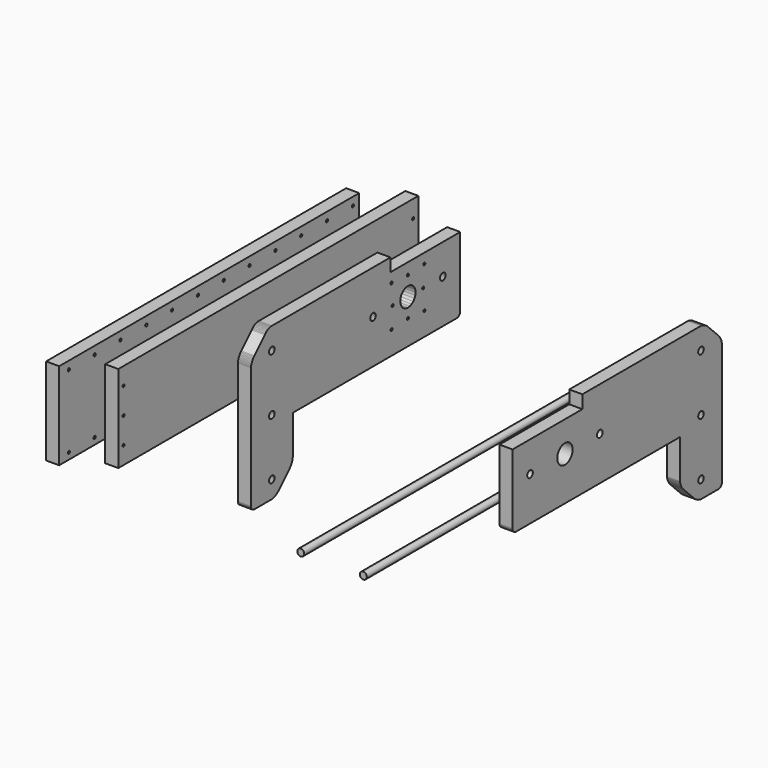
from build123d import *

# Parameters (mm, degrees)
F5_DEPTH  = 15
F6_DEPTH  = 15
F2_R      = 3.9999997574
F2_R_2    = 10.999999734
F2_R_3    = 4.0000000326
F7_DEPTH  = 15
F9_W      = 430
F9_H      = 100
F10_DEPTH = 15
F13_DEPTH = 15
F17_R     = 4
F18_DEPTH = 215
F21_W     = 430
F21_H     = 100
F21_R     = 1.6
F22_DEPTH = 15


with BuildPart() as f5:
    # F4 (on offset) → F5 (new body)
    with BuildSketch(Plane.YZ.offset(-100)):
        Polygon((-30, 32), (-30, 23), (-200, 23), (-200, -37), (200, -37), (200, 23), (30, 23), (30, 32), (29.957224, 32.652631), (29.829629, 33.294095), (29.619397, 33.913417), (29.330127, 34.5), (28.966766, 35.043807), (28.535534, 35.535533), (28.043807, 35.966766), (27.5, 36.330127), (26.913417, 36.619397), (26.294095, 36.829629), (25.652631, 36.957224), (25, 37), (-25, 37), (-25.652631, 36.957224), (-26.294096, 36.829629), (-26.913418, 36.619397), (-27.5, 36.330127), (-28.043808, 35.966766), (-28.535534, 35.535533), (-28.966767, 35.043807), (-29.330127, 34.5), (-29.619398, 33.913417), (-29.82963, 33.294095), (-29.957225, 32.652631), align=None)
        Polygon((-193.799038, -26.25), (-193.560661, -25.93934), (-193.25, -25.700962), (-192.888229, -25.551112), (-192.5, -25.5), (-192.111772, -25.551112), (-191.75, -25.700962), (-191.43934, -25.93934), (-191.200962, -26.25), (-191.051112, -26.611772), (-191, -27), (-191.051112, -27.388229), (-191.200962, -27.75), (-191.43934, -28.060661), (-191.75, -28.299039), (-192.111772, -28.448889), (-192.5, -28.5), (-192.888229, -28.448889), (-193.25, -28.299039), (-193.560661, -28.060661), (-193.799038, -27.75), (-193.948889, -27.388229), (-194, -27), (-193.948889, -26.611772), align=None, mode=Mode.SUBTRACT)
        Polygon((-193.560661, -5.93934), (-193.25, -5.700962), (-192.888229, -5.551112), (-192.5, -5.5), (-192.111772, -5.551112), (-191.75, -5.700962), (-191.43934, -5.93934), (-191.200962, -6.25), (-191.051112, -6.611772), (-191, -7), (-191.051112, -7.388229), (-191.200962, -7.75), (-191.43934, -8.060661), (-191.75, -8.299039), (-192.111772, -8.448889), (-192.5, -8.5), (-192.888229, -8.448889), (-193.25, -8.299039), (-193.560661, -8.060661), (-193.799038, -7.75), (-193.948889, -7.388229), (-194, -7), (-193.948889, -6.611772), (-193.799038, -6.25), align=None, mode=Mode.SUBTRACT)
        Polygon((-24.849038, -16.3), (-24.998889, -15.938229), (-25.05, -15.55), (-24.998889, -15.161772), (-24.849038, -14.8), (-24.610661, -14.48934), (-24.3, -14.250962), (-23.938229, -14.101112), (-23.55, -14.05), (-23.161772, -14.101112), (-22.8, -14.250962), (-22.48934, -14.48934), (-22.250962, -14.8), (-22.101112, -15.161772), (-22.05, -15.55), (-22.101112, -15.938229), (-22.250962, -16.3), (-22.48934, -16.610661), (-22.8, -16.849039), (-23.161772, -16.998889), (-23.55, -17.05), (-23.938229, -16.998889), (-24.3, -16.849039), (-24.610661, -16.610661), align=None, mode=Mode.SUBTRACT)
        Polygon((191.051111, -27.388229), (191, -27), (191.051111, -26.611772), (191.200962, -26.25), (191.439339, -25.93934), (191.75, -25.700962), (192.111771, -25.551112), (192.5, -25.5), (192.888228, -25.551112), (193.25, -25.700962), (193.56066, -25.93934), (193.799038, -26.25), (193.948888, -26.611772), (194, -27), (193.948888, -27.388229), (193.799038, -27.75), (193.56066, -28.060661), (193.25, -28.299039), (192.888228, -28.448889), (192.5, -28.5), (192.111771, -28.448889), (191.75, -28.299039), (191.439339, -28.060661), (191.200962, -27.75), align=None, mode=Mode.SUBTRACT)
        Polygon((-0.75, -12.621273), (-0.388229, -12.471422), (0, -12.420311), (0.388228, -12.471422), (0.75, -12.621273), (1.06066, -12.85965), (1.299038, -13.170311), (1.448888, -13.532082), (1.5, -13.920311), (1.448888, -14.308539), (1.299038, -14.670311), (1.06066, -14.980971), (0.75, -15.219349), (0.388228, -15.369199), (0, -15.420311), (-0.388229, -15.369199), (-0.75, -15.219349), (-1.060661, -14.980971), (-1.299038, -14.670311), (-1.448889, -14.308539), (-1.5, -13.920311), (-1.448889, -13.532082), (-1.299038, -13.170311), (-1.060661, -12.85965), align=None, mode=Mode.SUBTRACT)
        Polygon((23.55, -14.05), (23.938228, -14.101112), (24.3, -14.250962), (24.61066, -14.48934), (24.849038, -14.8), (24.998888, -15.161772), (25.05, -15.55), (24.998888, -15.938229), (24.849038, -16.3), (24.61066, -16.610661), (24.3, -16.849039), (23.938228, -16.998889), (23.55, -17.05), (23.161771, -16.998889), (22.8, -16.849039), (22.489339, -16.610661), (22.250962, -16.3), (22.101111, -15.938229), (22.05, -15.55), (22.101111, -15.161772), (22.250962, -14.8), (22.489339, -14.48934), (22.8, -14.250962), (23.161771, -14.101112), align=None, mode=Mode.SUBTRACT)
        Polygon((191.200962, -7.75), (191.051111, -7.388229), (191, -7), (191.051111, -6.611772), (191.200962, -6.25), (191.439339, -5.93934), (191.75, -5.700962), (192.111771, -5.551112), (192.5, -5.5), (192.888228, -5.551112), (193.25, -5.700962), (193.56066, -5.93934), (193.799038, -6.25), (193.948888, -6.611772), (194, -7), (193.948888, -7.388229), (193.799038, -7.75), (193.56066, -8.060661), (193.25, -8.299039), (192.888228, -8.448889), (192.5, -8.5), (192.111771, -8.448889), (191.75, -8.299039), (191.439339, -8.060661), align=None, mode=Mode.SUBTRACT)
        Polygon((-191.200962, 12.25), (-191.43934, 11.939339), (-191.75, 11.700961), (-192.111772, 11.551111), (-192.5, 11.5), (-192.888229, 11.551111), (-193.25, 11.700961), (-193.560661, 11.939339), (-193.799038, 12.25), (-193.948889, 12.611771), (-194, 13), (-193.948889, 13.388228), (-193.799038, 13.75), (-193.560661, 14.06066), (-193.25, 14.299038), (-192.888229, 14.448888), (-192.5, 14.5), (-192.111772, 14.448888), (-191.75, 14.299038), (-191.43934, 14.06066), (-191.200962, 13.75), (-191.051112, 13.388228), (-191, 13), (-191.051112, 12.611771), align=None, mode=Mode.SUBTRACT)
        Polygon((-101.448889, 8.388228), (-101.299038, 8.75), (-101.060661, 9.06066), (-100.75, 9.299038), (-100.388229, 9.448888), (-100, 9.5), (-99.611772, 9.448888), (-99.25, 9.299038), (-98.93934, 9.06066), (-98.700962, 8.75), (-98.551112, 8.388228), (-98.5, 8), (-98.551112, 7.611771), (-98.700962, 7.25), (-98.93934, 6.939339), (-99.25, 6.700961), (-99.611772, 6.551111), (-100, 6.5), (-100.388229, 6.551111), (-100.75, 6.700961), (-101.060661, 6.939339), (-101.299038, 7.25), (-101.448889, 7.611771), (-101.5, 8), align=None, mode=Mode.SUBTRACT)
        Polygon((-88.464102, 10), (-87.828428, 10.828427), (-87, 11.464101), (-86.035277, 11.863703), (-85, 12), (-83.964724, 11.863703), (-83, 11.464101), (-82.171573, 10.828427), (-81.535899, 10), (-81.136297, 9.035276), (-81, 8), (-81.136297, 6.964723), (-81.535899, 6), (-82.171573, 5.171572), (-83, 4.535898), (-83.964724, 4.136296), (-85, 4), (-86.035277, 4.136296), (-87, 4.535898), (-87.828428, 5.171572), (-88.464102, 6), (-88.863704, 6.964723), (-89, 8), (-88.863704, 9.035276), align=None, mode=Mode.SUBTRACT)
        Polygon((-71.448889, 7.611771), (-71.5, 8), (-71.448889, 8.388228), (-71.299038, 8.75), (-71.060661, 9.06066), (-70.75, 9.299038), (-70.388229, 9.448888), (-70, 9.5), (-69.611772, 9.448888), (-69.25, 9.299038), (-68.93934, 9.06066), (-68.700962, 8.75), (-68.551112, 8.388228), (-68.5, 8), (-68.551112, 7.611771), (-68.700962, 7.25), (-68.93934, 6.939339), (-69.25, 6.700961), (-69.611772, 6.551111), (-70, 6.5), (-70.388229, 6.551111), (-70.75, 6.700961), (-71.060661, 6.939339), (-71.299038, 7.25), align=None, mode=Mode.SUBTRACT)
        Polygon((-23.219349, 8.75), (-22.980971, 9.06066), (-22.670311, 9.299038), (-22.308539, 9.448888), (-21.920311, 9.5), (-21.532082, 9.448888), (-21.170311, 9.299038), (-20.85965, 9.06066), (-20.621272, 8.75), (-20.471422, 8.388228), (-20.420311, 8), (-20.471422, 7.611771), (-20.621272, 7.25), (-20.85965, 6.939339), (-21.170311, 6.700961), (-21.532082, 6.551111), (-21.920311, 6.5), (-22.308539, 6.551111), (-22.670311, 6.700961), (-22.980971, 6.939339), (-23.219349, 7.25), (-23.369199, 7.611771), (-23.420311, 8), (-23.369199, 8.388228), align=None, mode=Mode.SUBTRACT)
        Polygon((-22.05, 31.55), (-22.101112, 31.161771), (-22.250962, 30.8), (-22.48934, 30.489339), (-22.8, 30.250961), (-23.161772, 30.101111), (-23.55, 30.05), (-23.938229, 30.101111), (-24.3, 30.250961), (-24.610661, 30.489339), (-24.849038, 30.8), (-24.998889, 31.161771), (-25.05, 31.55), (-24.998889, 31.938228), (-24.849038, 32.3), (-24.610661, 32.61066), (-24.3, 32.849038), (-23.938229, 32.998888), (-23.55, 33.05), (-23.161772, 32.998888), (-22.8, 32.849038), (-22.48934, 32.61066), (-22.250962, 32.3), (-22.101112, 31.938228), align=None, mode=Mode.SUBTRACT)
        Polygon((-10.392305, 14), (-8.485282, 16.485281), (-6, 18.392304), (-3.105829, 19.591109), (0, 20), (3.105828, 19.591109), (6, 18.392304), (8.485281, 16.485281), (10.392304, 14), (11.59111, 11.105828), (12, 8), (11.59111, 4.894171), (10.392304, 2), (8.485281, -0.485282), (6, -2.392305), (3.105828, -3.59111), (0, -4), (-3.105829, -3.59111), (-6, -2.392305), (-8.485282, -0.485282), (-10.392305, 2), (-11.59111, 4.894171), (-12, 8), (-11.59111, 11.105828), align=None, mode=Mode.SUBTRACT)
        Polygon((20.85965, 9.06066), (21.17031, 9.299038), (21.532081, 9.448888), (21.92031, 9.5), (22.308538, 9.448888), (22.67031, 9.299038), (22.98097, 9.06066), (23.219348, 8.75), (23.369199, 8.388228), (23.42031, 8), (23.369199, 7.611771), (23.219348, 7.25), (22.98097, 6.939339), (22.67031, 6.700961), (22.308538, 6.551111), (21.92031, 6.5), (21.532081, 6.551111), (21.17031, 6.700961), (20.85965, 6.939339), (20.621272, 7.25), (20.471421, 7.611771), (20.42031, 8), (20.471421, 8.388228), (20.621272, 8.75), align=None, mode=Mode.SUBTRACT)
        Polygon((70.75, 6.700961), (70.388228, 6.551111), (70, 6.5), (69.611771, 6.551111), (69.25, 6.700961), (68.939339, 6.939339), (68.700962, 7.25), (68.551111, 7.611771), (68.5, 8), (68.551111, 8.388228), (68.700962, 8.75), (68.939339, 9.06066), (69.25, 9.299038), (69.611771, 9.448888), (70, 9.5), (70.388228, 9.448888), (70.75, 9.299038), (71.06066, 9.06066), (71.299038, 8.75), (71.448888, 8.388228), (71.5, 8), (71.448888, 7.611771), (71.299038, 7.25), (71.06066, 6.939339), align=None, mode=Mode.SUBTRACT)
        Polygon((81.136296, 6.964723), (81, 8), (81.136296, 9.035276), (81.535898, 10), (82.171572, 10.828427), (83, 11.464101), (83.964723, 11.863703), (85, 12), (86.035276, 11.863703), (87, 11.464101), (87.828427, 10.828427), (88.464101, 10), (88.863703, 9.035276), (89, 8), (88.863703, 6.964723), (88.464101, 6), (87.828427, 5.171572), (87, 4.535898), (86.035276, 4.136296), (85, 4), (83.964723, 4.136296), (83, 4.535898), (82.171572, 5.171572), (81.535898, 6), align=None, mode=Mode.SUBTRACT)
        Polygon((101.448888, 8.388228), (101.5, 8), (101.448888, 7.611771), (101.299038, 7.25), (101.06066, 6.939339), (100.75, 6.700961), (100.388228, 6.551111), (100, 6.5), (99.611771, 6.551111), (99.25, 6.700961), (98.939339, 6.939339), (98.700962, 7.25), (98.551111, 7.611771), (98.5, 8), (98.551111, 8.388228), (98.700962, 8.75), (98.939339, 9.06066), (99.25, 9.299038), (99.611771, 9.448888), (100, 9.5), (100.388228, 9.448888), (100.75, 9.299038), (101.06066, 9.06066), (101.299038, 8.75), align=None, mode=Mode.SUBTRACT)
        Polygon((191.75, 14.299038), (192.111771, 14.448888), (192.5, 14.5), (192.888228, 14.448888), (193.25, 14.299038), (193.56066, 14.06066), (193.799038, 13.75), (193.948888, 13.388228), (194, 13), (193.948888, 12.611771), (193.799038, 12.25), (193.56066, 11.939339), (193.25, 11.700961), (192.888228, 11.551111), (192.5, 11.5), (192.111771, 11.551111), (191.75, 11.700961), (191.439339, 11.939339), (191.200962, 12.25), (191.051111, 12.611771), (191, 13), (191.051111, 13.388228), (191.200962, 13.75), (191.439339, 14.06066), align=None, mode=Mode.SUBTRACT)
        Polygon((-1.060661, 28.85965), (-1.299038, 29.17031), (-1.448889, 29.532081), (-1.5, 29.92031), (-1.448889, 30.308538), (-1.299038, 30.67031), (-1.060661, 30.98097), (-0.75, 31.219348), (-0.388229, 31.369199), (0, 31.42031), (0.388228, 31.369199), (0.75, 31.219348), (1.06066, 30.98097), (1.299038, 30.67031), (1.448888, 30.308538), (1.5, 29.92031), (1.448888, 29.532081), (1.299038, 29.17031), (1.06066, 28.85965), (0.75, 28.621272), (0.388228, 28.471421), (0, 28.42031), (-0.388229, 28.471421), (-0.75, 28.621272), align=None, mode=Mode.SUBTRACT)
        Polygon((24.61066, 30.489339), (24.3, 30.250961), (23.938228, 30.101111), (23.55, 30.05), (23.161771, 30.101111), (22.8, 30.250961), (22.489339, 30.489339), (22.250962, 30.8), (22.101111, 31.161771), (22.05, 31.55), (22.101111, 31.938228), (22.250962, 32.3), (22.489339, 32.61066), (22.8, 32.849038), (23.161771, 32.998888), (23.55, 33.05), (23.938228, 32.998888), (24.3, 32.849038), (24.61066, 32.61066), (24.849038, 32.3), (24.998888, 31.938228), (25.05, 31.55), (24.998888, 31.161771), (24.849038, 30.8), align=None, mode=Mode.SUBTRACT)
    extrude(amount=F5_DEPTH)


with BuildPart() as f5b:
    # F0 (on Right) → F5, piece 2 (new body)
    with BuildSketch(Plane.YZ):
        Polygon((-125, 97.5), (-140, 97.5), (-141.305262, 97.414449), (-142.588191, 97.159259), (-143.826835, 96.738796), (-145, 96.160254), (-146.087615, 95.433534), (-147.071068, 94.571068), (-147.933534, 93.587615), (-148.660254, 92.5), (-149.238796, 91.326835), (-149.659259, 90.088191), (-149.914449, 88.805262), (-150, 87.5), (-150, -92.5), (-149.957225, -93.152631), (-149.82963, -93.794095), (-149.619398, -94.413417), (-149.330127, -95), (-148.966767, -95.543807), (-148.535534, -96.035534), (-148.043808, -96.466766), (-147.5, -96.830127), (-146.913418, -97.119397), (-146.294096, -97.329629), (-145.652631, -97.457224), (-145, -97.5), (-120, -97.5), (-119.065605, -97.340845), (-118.141083, -97.131837), (-117.229092, -96.873575), (-116.332256, -96.566802), (-115.453151, -96.2124), (-114.594306, -95.811388), (-113.75819, -95.364919), (-112.947205, -94.874276), (-112.163685, -94.340871), (-111.409881, -93.766236), (-110.687961, -93.152024), (-110, -92.5), (-95, -77.5), (-94.347976, -76.812039), (-93.733764, -76.090119), (-93.159129, -75.336315), (-92.625724, -74.552795), (-92.135081, -73.74181), (-91.688612, -72.905694), (-91.2876, -72.046849), (-90.933198, -71.167744), (-90.626425, -70.270908), (-90.368163, -69.358917), (-90.159155, -68.434395), (-90, -67.5), (-90, -22.5), (145, -22.5), (145.652631, -22.457224), (146.294095, -22.329629), (146.913417, -22.119397), (147.5, -21.830127), (148.043807, -21.466766), (148.535534, -21.035534), (148.966766, -20.543807), (149.330127, -20), (149.619397, -19.413417), (149.829629, -18.794095), (149.957224, -18.152631), (150, -17.5), (150, 62.5), (50, 62.5), (50, 77.5), (-90, 77.5), (-102.5, 87.5), (-104.147134, 88.760926), (-105.846655, 89.950301), (-107.595456, 91.065953), (-109.390342, 92.105841), (-111.228033, 93.068067), (-113.105169, 93.950871), (-115.018321, 94.75264), (-116.963992, 95.471908), (-118.938627, 96.107362), (-120.938617, 96.65784), (-122.960306, 97.122336), align=None)
        Polygon((-122, -80.964101), (-122.828428, -80.328427), (-123.464102, -79.5), (-123.863704, -78.535276), (-124, -77.5), (-123.863704, -76.464723), (-123.464102, -75.5), (-122.828428, -74.671572), (-122, -74.035898), (-121.035277, -73.636296), (-120, -73.5), (-118.964724, -73.636296), (-118, -74.035898), (-117.171573, -74.671572), (-116.535899, -75.5), (-116.136297, -76.464723), (-116, -77.5), (-116.136297, -78.535276), (-116.535899, -79.5), (-117.171573, -80.328427), (-118, -80.964101), (-118.964724, -81.363703), (-120, -81.5), (-121.035277, -81.363703), align=None, mode=Mode.SUBTRACT)
        Polygon((-118, -9.035898), (-117.171573, -9.671572), (-116.535899, -10.5), (-116.136297, -11.464723), (-116, -12.5), (-116.136297, -13.535276), (-116.535899, -14.5), (-117.171573, -15.328427), (-118, -15.964101), (-118.964724, -16.363703), (-120, -16.5), (-121.035277, -16.363703), (-122, -15.964101), (-122.828428, -15.328427), (-123.464102, -14.5), (-123.863704, -13.535276), (-124, -12.5), (-123.863704, -11.464723), (-123.464102, -10.5), (-122.828428, -9.671572), (-122, -9.035898), (-121.035277, -8.636296), (-120, -8.5), (-118.964724, -8.636296), align=None, mode=Mode.SUBTRACT)
        Polygon((-117.171573, 49.671573), (-118, 49.035899), (-118.964724, 48.636297), (-120, 48.5), (-121.035277, 48.636297), (-122, 49.035899), (-122.828428, 49.671573), (-123.464102, 50.5), (-123.863704, 51.464724), (-124, 52.5), (-123.863704, 53.535277), (-123.464102, 54.5), (-122.828428, 55.328428), (-122, 55.964102), (-121.035277, 56.363704), (-120, 56.5), (-118.964724, 56.363704), (-118, 55.964102), (-117.171573, 55.328428), (-116.535899, 54.5), (-116.136297, 53.535277), (-116, 52.5), (-116.136297, 51.464724), (-116.535899, 50.5), align=None, mode=Mode.SUBTRACT)
        Polygon((51.061771, 5.398889), (51.45, 5.45), (51.838228, 5.398889), (52.2, 5.249038), (52.51066, 5.010661), (52.749038, 4.7), (52.898888, 4.338229), (52.95, 3.95), (52.898888, 3.561772), (52.749038, 3.2), (52.51066, 2.88934), (52.2, 2.650962), (51.838228, 2.501112), (51.45, 2.45), (51.061771, 2.501112), (50.7, 2.650962), (50.389339, 2.88934), (50.150962, 3.2), (50.001111, 3.561772), (49.95, 3.95), (50.001111, 4.338229), (50.150962, 4.7), (50.389339, 5.010661), (50.7, 5.249038), align=None, mode=Mode.SUBTRACT)
        Polygon((28.464101, 29.5), (28.863703, 28.535277), (29, 27.5), (28.863703, 26.464724), (28.464101, 25.5), (27.828427, 24.671573), (27, 24.035899), (26.035276, 23.636297), (25, 23.5), (23.964723, 23.636297), (23, 24.035899), (22.171572, 24.671573), (21.535898, 25.5), (21.136296, 26.464724), (21, 27.5), (21.136296, 28.535277), (21.535898, 29.5), (22.171572, 30.328428), (23, 30.964102), (23.964723, 31.363704), (25, 31.5), (26.035276, 31.363704), (27, 30.964102), (27.828427, 30.328428), align=None, mode=Mode.SUBTRACT)
        Polygon((51.579689, 27.5), (51.630801, 27.888229), (51.780651, 28.25), (52.019029, 28.560661), (52.329689, 28.799038), (52.691461, 28.948889), (53.079689, 29), (53.467918, 28.948889), (53.829689, 28.799038), (54.14035, 28.560661), (54.378728, 28.25), (54.528578, 27.888229), (54.579689, 27.5), (54.528578, 27.111772), (54.378728, 26.75), (54.14035, 26.43934), (53.829689, 26.200962), (53.467918, 26.051112), (53.079689, 26), (52.691461, 26.051112), (52.329689, 26.200962), (52.019029, 26.43934), (51.780651, 26.75), (51.630801, 27.111772), align=None, mode=Mode.SUBTRACT)
        Polygon((74.25, 4.280652), (73.939339, 4.51903), (73.700962, 4.82969), (73.551111, 5.191462), (73.5, 5.57969), (73.551111, 5.967919), (73.700962, 6.32969), (73.939339, 6.64035), (74.25, 6.878728), (74.611771, 7.028579), (75, 7.07969), (75.388228, 7.028579), (75.75, 6.878728), (76.06066, 6.64035), (76.299038, 6.32969), (76.448888, 5.967919), (76.5, 5.57969), (76.448888, 5.191462), (76.299038, 4.82969), (76.06066, 4.51903), (75.75, 4.280652), (75.388228, 4.130801), (75, 4.07969), (74.611771, 4.130801), align=None, mode=Mode.SUBTRACT)
        Polygon((97.489339, 5.010661), (97.8, 5.249038), (98.161771, 5.398889), (98.55, 5.45), (98.938228, 5.398889), (99.3, 5.249038), (99.61066, 5.010661), (99.849038, 4.7), (99.998888, 4.338229), (100.05, 3.95), (99.998888, 3.561772), (99.849038, 3.2), (99.61066, 2.88934), (99.3, 2.650962), (98.938228, 2.501112), (98.55, 2.45), (98.161771, 2.501112), (97.8, 2.650962), (97.489339, 2.88934), (97.250962, 3.2), (97.101111, 3.561772), (97.05, 3.95), (97.101111, 4.338229), (97.250962, 4.7), align=None, mode=Mode.SUBTRACT)
        Polygon((69.5, 37.02628), (72.15299, 38.125184), (75, 38.5), (77.847009, 38.125184), (80.5, 37.02628), (82.778174, 35.278175), (84.526279, 33), (85.625184, 30.34701), (86, 27.5), (85.625184, 24.652991), (84.526279, 22), (82.778174, 19.721826), (80.5, 17.973721), (77.847009, 16.874816), (75, 16.5), (72.15299, 16.874816), (69.5, 17.973721), (67.221825, 19.721826), (65.47372, 22), (64.374816, 24.652991), (64, 27.5), (64.374816, 30.34701), (65.47372, 33), (67.221825, 35.278175), align=None, mode=Mode.SUBTRACT)
        Polygon((96.17031, 28.799038), (96.532081, 28.948889), (96.92031, 29), (97.308538, 28.948889), (97.67031, 28.799038), (97.98097, 28.560661), (98.219348, 28.25), (98.369199, 27.888229), (98.42031, 27.5), (98.369199, 27.111772), (98.219348, 26.75), (97.98097, 26.43934), (97.67031, 26.200962), (97.308538, 26.051112), (96.92031, 26), (96.532081, 26.051112), (96.17031, 26.200962), (95.85965, 26.43934), (95.621272, 26.75), (95.471421, 27.111772), (95.42031, 27.5), (95.471421, 27.888229), (95.621272, 28.25), (95.85965, 28.560661), align=None, mode=Mode.SUBTRACT)
        Polygon((126.035276, 31.363704), (127, 30.964102), (127.828427, 30.328428), (128.464101, 29.5), (128.863703, 28.535277), (129, 27.5), (128.863703, 26.464724), (128.464101, 25.5), (127.828427, 24.671573), (127, 24.035899), (126.035276, 23.636297), (125, 23.5), (123.964723, 23.636297), (123, 24.035899), (122.171572, 24.671573), (121.535898, 25.5), (121.136296, 26.464724), (121, 27.5), (121.136296, 28.535277), (121.535898, 29.5), (122.171572, 30.328428), (123, 30.964102), (123.964723, 31.363704), (125, 31.5), align=None, mode=Mode.SUBTRACT)
        Polygon((49.95, 51.05), (50.001111, 51.438229), (50.150962, 51.8), (50.389339, 52.110661), (50.7, 52.349038), (51.061771, 52.498889), (51.45, 52.55), (51.838228, 52.498889), (52.2, 52.349038), (52.51066, 52.110661), (52.749038, 51.8), (52.898888, 51.438229), (52.95, 51.05), (52.898888, 50.661772), (52.749038, 50.3), (52.51066, 49.98934), (52.2, 49.750962), (51.838228, 49.601112), (51.45, 49.55), (51.061771, 49.601112), (50.7, 49.750962), (50.389339, 49.98934), (50.150962, 50.3), (50.001111, 50.661772), align=None, mode=Mode.SUBTRACT)
        Polygon((74.25, 50.719349), (74.611771, 50.869199), (75, 50.920311), (75.388228, 50.869199), (75.75, 50.719349), (76.06066, 50.480971), (76.299038, 50.170311), (76.448888, 49.808539), (76.5, 49.420311), (76.448888, 49.032082), (76.299038, 48.670311), (76.06066, 48.35965), (75.75, 48.121272), (75.388228, 47.971422), (75, 47.920311), (74.611771, 47.971422), (74.25, 48.121272), (73.939339, 48.35965), (73.700962, 48.670311), (73.551111, 49.032082), (73.5, 49.420311), (73.551111, 49.808539), (73.700962, 50.170311), (73.939339, 50.480971), align=None, mode=Mode.SUBTRACT)
        Polygon((98.55, 49.55), (98.161771, 49.601112), (97.8, 49.750962), (97.489339, 49.98934), (97.250962, 50.3), (97.101111, 50.661772), (97.05, 51.05), (97.101111, 51.438229), (97.250962, 51.8), (97.489339, 52.110661), (97.8, 52.349038), (98.161771, 52.498889), (98.55, 52.55), (98.938228, 52.498889), (99.3, 52.349038), (99.61066, 52.110661), (99.849038, 51.8), (99.998888, 51.438229), (100.05, 51.05), (99.998888, 50.661772), (99.849038, 50.3), (99.61066, 49.98934), (99.3, 49.750962), (98.938228, 49.601112), align=None, mode=Mode.SUBTRACT)
    extrude(amount=F5_DEPTH)

    # F0 (on Right) → F6 (join)
    with BuildSketch(Plane.YZ):
        Polygon((-125, 97.5), (-140, 97.5), (-141.305262, 97.414449), (-142.588191, 97.159259), (-143.826835, 96.738796), (-145, 96.160254), (-146.087615, 95.433534), (-147.071068, 94.571068), (-147.933534, 93.587615), (-148.660254, 92.5), (-149.238796, 91.326835), (-149.659259, 90.088191), (-149.914449, 88.805262), (-150, 87.5), (-150, -92.5), (-149.957225, -93.152631), (-149.82963, -93.794095), (-149.619398, -94.413417), (-149.330127, -95), (-148.966767, -95.543807), (-148.535534, -96.035534), (-148.043808, -96.466766), (-147.5, -96.830127), (-146.913418, -97.119397), (-146.294096, -97.329629), (-145.652631, -97.457224), (-145, -97.5), (-120, -97.5), (-119.065605, -97.340845), (-118.141083, -97.131837), (-117.229092, -96.873575), (-116.332256, -96.566802), (-115.453151, -96.2124), (-114.594306, -95.811388), (-113.75819, -95.364919), (-112.947205, -94.874276), (-112.163685, -94.340871), (-111.409881, -93.766236), (-110.687961, -93.152024), (-110, -92.5), (-95, -77.5), (-94.347976, -76.812039), (-93.733764, -76.090119), (-93.159129, -75.336315), (-92.625724, -74.552795), (-92.135081, -73.74181), (-91.688612, -72.905694), (-91.2876, -72.046849), (-90.933198, -71.167744), (-90.626425, -70.270908), (-90.368163, -69.358917), (-90.159155, -68.434395), (-90, -67.5), (-90, -22.5), (145, -22.5), (145.652631, -22.457224), (146.294095, -22.329629), (146.913417, -22.119397), (147.5, -21.830127), (148.043807, -21.466766), (148.535534, -21.035534), (148.966766, -20.543807), (149.330127, -20), (149.619397, -19.413417), (149.829629, -18.794095), (149.957224, -18.152631), (150, -17.5), (150, 62.5), (50, 62.5), (50, 77.5), (-90, 77.5), (-102.5, 87.5), (-104.147134, 88.760926), (-105.846655, 89.950301), (-107.595456, 91.065953), (-109.390342, 92.105841), (-111.228033, 93.068067), (-113.105169, 93.950871), (-115.018321, 94.75264), (-116.963992, 95.471908), (-118.938627, 96.107362), (-120.938617, 96.65784), (-122.960306, 97.122336), align=None)
        Polygon((-122, -80.964101), (-122.828428, -80.328427), (-123.464102, -79.5), (-123.863704, -78.535276), (-124, -77.5), (-123.863704, -76.464723), (-123.464102, -75.5), (-122.828428, -74.671572), (-122, -74.035898), (-121.035277, -73.636296), (-120, -73.5), (-118.964724, -73.636296), (-118, -74.035898), (-117.171573, -74.671572), (-116.535899, -75.5), (-116.136297, -76.464723), (-116, -77.5), (-116.136297, -78.535276), (-116.535899, -79.5), (-117.171573, -80.328427), (-118, -80.964101), (-118.964724, -81.363703), (-120, -81.5), (-121.035277, -81.363703), align=None, mode=Mode.SUBTRACT)
        Polygon((-118, -9.035898), (-117.171573, -9.671572), (-116.535899, -10.5), (-116.136297, -11.464723), (-116, -12.5), (-116.136297, -13.535276), (-116.535899, -14.5), (-117.171573, -15.328427), (-118, -15.964101), (-118.964724, -16.363703), (-120, -16.5), (-121.035277, -16.363703), (-122, -15.964101), (-122.828428, -15.328427), (-123.464102, -14.5), (-123.863704, -13.535276), (-124, -12.5), (-123.863704, -11.464723), (-123.464102, -10.5), (-122.828428, -9.671572), (-122, -9.035898), (-121.035277, -8.636296), (-120, -8.5), (-118.964724, -8.636296), align=None, mode=Mode.SUBTRACT)
        Polygon((-117.171573, 49.671573), (-118, 49.035899), (-118.964724, 48.636297), (-120, 48.5), (-121.035277, 48.636297), (-122, 49.035899), (-122.828428, 49.671573), (-123.464102, 50.5), (-123.863704, 51.464724), (-124, 52.5), (-123.863704, 53.535277), (-123.464102, 54.5), (-122.828428, 55.328428), (-122, 55.964102), (-121.035277, 56.363704), (-120, 56.5), (-118.964724, 56.363704), (-118, 55.964102), (-117.171573, 55.328428), (-116.535899, 54.5), (-116.136297, 53.535277), (-116, 52.5), (-116.136297, 51.464724), (-116.535899, 50.5), align=None, mode=Mode.SUBTRACT)
        Polygon((51.061771, 5.398889), (51.45, 5.45), (51.838228, 5.398889), (52.2, 5.249038), (52.51066, 5.010661), (52.749038, 4.7), (52.898888, 4.338229), (52.95, 3.95), (52.898888, 3.561772), (52.749038, 3.2), (52.51066, 2.88934), (52.2, 2.650962), (51.838228, 2.501112), (51.45, 2.45), (51.061771, 2.501112), (50.7, 2.650962), (50.389339, 2.88934), (50.150962, 3.2), (50.001111, 3.561772), (49.95, 3.95), (50.001111, 4.338229), (50.150962, 4.7), (50.389339, 5.010661), (50.7, 5.249038), align=None, mode=Mode.SUBTRACT)
        Polygon((28.464101, 29.5), (28.863703, 28.535277), (29, 27.5), (28.863703, 26.464724), (28.464101, 25.5), (27.828427, 24.671573), (27, 24.035899), (26.035276, 23.636297), (25, 23.5), (23.964723, 23.636297), (23, 24.035899), (22.171572, 24.671573), (21.535898, 25.5), (21.136296, 26.464724), (21, 27.5), (21.136296, 28.535277), (21.535898, 29.5), (22.171572, 30.328428), (23, 30.964102), (23.964723, 31.363704), (25, 31.5), (26.035276, 31.363704), (27, 30.964102), (27.828427, 30.328428), align=None, mode=Mode.SUBTRACT)
        Polygon((51.579689, 27.5), (51.630801, 27.888229), (51.780651, 28.25), (52.019029, 28.560661), (52.329689, 28.799038), (52.691461, 28.948889), (53.079689, 29), (53.467918, 28.948889), (53.829689, 28.799038), (54.14035, 28.560661), (54.378728, 28.25), (54.528578, 27.888229), (54.579689, 27.5), (54.528578, 27.111772), (54.378728, 26.75), (54.14035, 26.43934), (53.829689, 26.200962), (53.467918, 26.051112), (53.079689, 26), (52.691461, 26.051112), (52.329689, 26.200962), (52.019029, 26.43934), (51.780651, 26.75), (51.630801, 27.111772), align=None, mode=Mode.SUBTRACT)
        Polygon((74.25, 4.280652), (73.939339, 4.51903), (73.700962, 4.82969), (73.551111, 5.191462), (73.5, 5.57969), (73.551111, 5.967919), (73.700962, 6.32969), (73.939339, 6.64035), (74.25, 6.878728), (74.611771, 7.028579), (75, 7.07969), (75.388228, 7.028579), (75.75, 6.878728), (76.06066, 6.64035), (76.299038, 6.32969), (76.448888, 5.967919), (76.5, 5.57969), (76.448888, 5.191462), (76.299038, 4.82969), (76.06066, 4.51903), (75.75, 4.280652), (75.388228, 4.130801), (75, 4.07969), (74.611771, 4.130801), align=None, mode=Mode.SUBTRACT)
        Polygon((97.489339, 5.010661), (97.8, 5.249038), (98.161771, 5.398889), (98.55, 5.45), (98.938228, 5.398889), (99.3, 5.249038), (99.61066, 5.010661), (99.849038, 4.7), (99.998888, 4.338229), (100.05, 3.95), (99.998888, 3.561772), (99.849038, 3.2), (99.61066, 2.88934), (99.3, 2.650962), (98.938228, 2.501112), (98.55, 2.45), (98.161771, 2.501112), (97.8, 2.650962), (97.489339, 2.88934), (97.250962, 3.2), (97.101111, 3.561772), (97.05, 3.95), (97.101111, 4.338229), (97.250962, 4.7), align=None, mode=Mode.SUBTRACT)
        Polygon((69.5, 37.02628), (72.15299, 38.125184), (75, 38.5), (77.847009, 38.125184), (80.5, 37.02628), (82.778174, 35.278175), (84.526279, 33), (85.625184, 30.34701), (86, 27.5), (85.625184, 24.652991), (84.526279, 22), (82.778174, 19.721826), (80.5, 17.973721), (77.847009, 16.874816), (75, 16.5), (72.15299, 16.874816), (69.5, 17.973721), (67.221825, 19.721826), (65.47372, 22), (64.374816, 24.652991), (64, 27.5), (64.374816, 30.34701), (65.47372, 33), (67.221825, 35.278175), align=None, mode=Mode.SUBTRACT)
        Polygon((96.17031, 28.799038), (96.532081, 28.948889), (96.92031, 29), (97.308538, 28.948889), (97.67031, 28.799038), (97.98097, 28.560661), (98.219348, 28.25), (98.369199, 27.888229), (98.42031, 27.5), (98.369199, 27.111772), (98.219348, 26.75), (97.98097, 26.43934), (97.67031, 26.200962), (97.308538, 26.051112), (96.92031, 26), (96.532081, 26.051112), (96.17031, 26.200962), (95.85965, 26.43934), (95.621272, 26.75), (95.471421, 27.111772), (95.42031, 27.5), (95.471421, 27.888229), (95.621272, 28.25), (95.85965, 28.560661), align=None, mode=Mode.SUBTRACT)
        Polygon((126.035276, 31.363704), (127, 30.964102), (127.828427, 30.328428), (128.464101, 29.5), (128.863703, 28.535277), (129, 27.5), (128.863703, 26.464724), (128.464101, 25.5), (127.828427, 24.671573), (127, 24.035899), (126.035276, 23.636297), (125, 23.5), (123.964723, 23.636297), (123, 24.035899), (122.171572, 24.671573), (121.535898, 25.5), (121.136296, 26.464724), (121, 27.5), (121.136296, 28.535277), (121.535898, 29.5), (122.171572, 30.328428), (123, 30.964102), (123.964723, 31.363704), (125, 31.5), align=None, mode=Mode.SUBTRACT)
        Polygon((49.95, 51.05), (50.001111, 51.438229), (50.150962, 51.8), (50.389339, 52.110661), (50.7, 52.349038), (51.061771, 52.498889), (51.45, 52.55), (51.838228, 52.498889), (52.2, 52.349038), (52.51066, 52.110661), (52.749038, 51.8), (52.898888, 51.438229), (52.95, 51.05), (52.898888, 50.661772), (52.749038, 50.3), (52.51066, 49.98934), (52.2, 49.750962), (51.838228, 49.601112), (51.45, 49.55), (51.061771, 49.601112), (50.7, 49.750962), (50.389339, 49.98934), (50.150962, 50.3), (50.001111, 50.661772), align=None, mode=Mode.SUBTRACT)
        Polygon((74.25, 50.719349), (74.611771, 50.869199), (75, 50.920311), (75.388228, 50.869199), (75.75, 50.719349), (76.06066, 50.480971), (76.299038, 50.170311), (76.448888, 49.808539), (76.5, 49.420311), (76.448888, 49.032082), (76.299038, 48.670311), (76.06066, 48.35965), (75.75, 48.121272), (75.388228, 47.971422), (75, 47.920311), (74.611771, 47.971422), (74.25, 48.121272), (73.939339, 48.35965), (73.700962, 48.670311), (73.551111, 49.032082), (73.5, 49.420311), (73.551111, 49.808539), (73.700962, 50.170311), (73.939339, 50.480971), align=None, mode=Mode.SUBTRACT)
        Polygon((98.55, 49.55), (98.161771, 49.601112), (97.8, 49.750962), (97.489339, 49.98934), (97.250962, 50.3), (97.101111, 50.661772), (97.05, 51.05), (97.101111, 51.438229), (97.250962, 51.8), (97.489339, 52.110661), (97.8, 52.349038), (98.161771, 52.498889), (98.55, 52.55), (98.938228, 52.498889), (99.3, 52.349038), (99.61066, 52.110661), (99.849038, 51.8), (99.998888, 51.438229), (100.05, 51.05), (99.998888, 50.661772), (99.849038, 50.3), (99.61066, 49.98934), (99.3, 49.750962), (98.938228, 49.601112), align=None, mode=Mode.SUBTRACT)
    extrude(amount=F6_DEPTH)


with BuildPart() as f7:
    # F2 (on offset) → F7 (new body)
    with BuildSketch(Plane.YZ.offset(100)):
        Polygon((-145, -12.5), (90, -12.5), (90, -57.5), (90.159154, -58.434396), (90.368163, -59.358918), (90.626425, -60.270908), (90.933198, -61.167745), (91.287599, -62.046849), (91.688611, -62.905694), (92.13508, -63.741811), (92.625723, -64.552795), (93.159128, -65.336315), (93.733763, -66.090119), (94.347976, -66.812039), (95, -67.5), (110, -82.5), (110.687961, -83.152024), (111.409881, -83.766237), (112.163684, -84.340872), (112.947205, -84.874277), (113.758189, -85.36492), (114.594305, -85.811389), (115.453151, -86.2124), (116.332255, -86.566802), (117.229092, -86.873575), (118.141082, -87.131837), (119.065604, -87.340846), (120, -87.5), (145, -87.5), (145.652631, -87.457225), (146.294095, -87.329629), (146.913417, -87.119398), (147.5, -86.830127), (148.043807, -86.466767), (148.535534, -86.035534), (148.966766, -85.543807), (149.330127, -85), (149.619397, -84.413417), (149.829629, -83.794095), (149.957224, -83.152631), (150, -82.5), (150, 57.5), (149.840845, 58.434395), (149.631837, 59.358917), (149.373575, 60.270908), (149.066802, 61.167744), (148.7124, 62.046849), (148.311388, 62.905694), (147.864919, 63.74181), (147.374276, 64.552795), (146.840871, 65.336315), (146.266236, 66.090119), (145.652024, 66.812039), (145, 67.5), (130, 82.5), (129.312039, 83.152024), (128.590119, 83.766236), (127.836315, 84.340871), (127.052795, 84.874277), (126.24181, 85.364919), (125.405694, 85.811388), (124.546849, 86.2124), (123.667744, 86.566802), (122.770908, 86.873575), (121.858917, 87.131837), (120.934395, 87.340845), (120, 87.5), (-50, 87.5), (-50, 72.5), (-150, 72.5), (-150, -7.5), (-149.957225, -8.152631), (-149.82963, -8.794095), (-149.619398, -9.413417), (-149.330127, -10), (-148.966767, -10.543807), (-148.535534, -11.035534), (-148.043808, -11.466767), (-147.5, -11.830127), (-146.913418, -12.119398), (-146.294096, -12.329629), (-145.652631, -12.457225), align=None)
        Polygon((122.828427, -70.328427), (122, -70.964102), (121.035276, -71.363704), (120, -71.5), (118.964723, -71.363704), (118, -70.964102), (117.171572, -70.328427), (116.535898, -69.5), (116.136296, -68.535276), (116, -67.5), (116.136296, -66.464724), (116.535898, -65.5), (117.171572, -64.671573), (118, -64.035899), (118.964723, -63.636297), (120, -63.5), (121.035276, -63.636297), (122, -64.035899), (122.828427, -64.671573), (123.464101, -65.5), (123.863703, -66.464724), (124, -67.5), (123.863703, -68.535276), (123.464101, -69.5), align=None, mode=Mode.SUBTRACT)
        Polygon((117.171572, 0.328427), (118, 0.964101), (118.964723, 1.363703), (120, 1.5), (121.035276, 1.363703), (122, 0.964101), (122.828427, 0.328427), (123.464101, -0.5), (123.863703, -1.464724), (124, -2.5), (123.863703, -3.535276), (123.464101, -4.5), (122.828427, -5.328427), (122, -5.964102), (121.035276, -6.363704), (120, -6.5), (118.964723, -6.363704), (118, -5.964102), (117.171572, -5.328427), (116.535898, -4.5), (116.136296, -3.535276), (116, -2.5), (116.136296, -1.464724), (116.535898, -0.5), align=None, mode=Mode.SUBTRACT)
        with Locations((-125.0000006409, 37.5000000027)):
            Circle(F2_R, mode=Mode.SUBTRACT)
        with Locations((-75.000000325, 37.4999998715)):
            Circle(F2_R_2, mode=Mode.SUBTRACT)
        with Locations((-25.0000003283, 37.5000000326)):
            Circle(F2_R_3, mode=Mode.SUBTRACT)
        Polygon((118, 59.035898), (117.171572, 59.671573), (116.535898, 60.5), (116.136296, 61.464724), (116, 62.5), (116.136296, 63.535276), (116.535898, 64.5), (117.171572, 65.328427), (118, 65.964101), (118.964723, 66.363703), (120, 66.5), (121.035276, 66.363703), (122, 65.964101), (122.828427, 65.328427), (123.464101, 64.5), (123.863703, 63.535276), (124, 62.5), (123.863703, 61.464724), (123.464101, 60.5), (122.828427, 59.671573), (122, 59.035898), (121.035276, 58.636296), (120, 58.5), (118.964723, 58.636296), align=None, mode=Mode.SUBTRACT)
    extrude(amount=F7_DEPTH)


with BuildPart() as f10:
    # F9 (on offset) → F10 (new body)
    with BuildSketch(Plane.YZ.offset(-300)):
        Rectangle(F9_W, F9_H)
        Polygon((-206.051111, -30.388229), (-206.200962, -30.75), (-206.43934, -31.06066), (-206.75, -31.299038), (-207.111771, -31.448889), (-207.5, -31.5), (-207.888229, -31.448889), (-208.25, -31.299038), (-208.56066, -31.06066), (-208.799038, -30.75), (-208.948889, -30.388229), (-209, -30), (-208.948889, -29.611771), (-208.799038, -29.25), (-208.56066, -28.93934), (-208.25, -28.700962), (-207.888229, -28.551111), (-207.5, -28.5), (-207.111771, -28.551111), (-206.75, -28.700962), (-206.43934, -28.93934), (-206.200962, -29.25), (-206.051111, -29.611771), (-206, -30), align=None, mode=Mode.SUBTRACT)
        Polygon((206.75, -28.700962), (207.111771, -28.551111), (207.5, -28.5), (207.888229, -28.551111), (208.25, -28.700962), (208.56066, -28.93934), (208.799038, -29.25), (208.948889, -29.611771), (209, -30), (208.948889, -30.388229), (208.799038, -30.75), (208.56066, -31.06066), (208.25, -31.299038), (207.888229, -31.448889), (207.5, -31.5), (207.111771, -31.448889), (206.75, -31.299038), (206.43934, -31.06066), (206.200962, -30.75), (206.051111, -30.388229), (206, -30), (206.051111, -29.611771), (206.200962, -29.25), (206.43934, -28.93934), align=None, mode=Mode.SUBTRACT)
        Polygon((-208.799038, -0.75), (-208.948889, -0.388229), (-209, 0), (-208.948889, 0.388229), (-208.799038, 0.75), (-208.56066, 1.06066), (-208.25, 1.299038), (-207.888229, 1.448889), (-207.5, 1.5), (-207.111771, 1.448889), (-206.75, 1.299038), (-206.43934, 1.06066), (-206.200962, 0.75), (-206.051111, 0.388229), (-206, 0), (-206.051111, -0.388229), (-206.200962, -0.75), (-206.43934, -1.06066), (-206.75, -1.299038), (-207.111771, -1.448889), (-207.5, -1.5), (-207.888229, -1.448889), (-208.25, -1.299038), (-208.56066, -1.06066), align=None, mode=Mode.SUBTRACT)
        Polygon((-206.051111, 30.388229), (-206, 30), (-206.051111, 29.611771), (-206.200962, 29.25), (-206.43934, 28.93934), (-206.75, 28.700962), (-207.111771, 28.551111), (-207.5, 28.5), (-207.888229, 28.551111), (-208.25, 28.700962), (-208.56066, 28.93934), (-208.799038, 29.25), (-208.948889, 29.611771), (-209, 30), (-208.948889, 30.388229), (-208.799038, 30.75), (-208.56066, 31.06066), (-208.25, 31.299038), (-207.888229, 31.448889), (-207.5, 31.5), (-207.111771, 31.448889), (-206.75, 31.299038), (-206.43934, 31.06066), (-206.200962, 30.75), align=None, mode=Mode.SUBTRACT)
        Polygon((207.5, 1.5), (207.888229, 1.448889), (208.25, 1.299038), (208.56066, 1.06066), (208.799038, 0.75), (208.948889, 0.388229), (209, 0), (208.948889, -0.388229), (208.799038, -0.75), (208.56066, -1.06066), (208.25, -1.299038), (207.888229, -1.448889), (207.5, -1.5), (207.111771, -1.448889), (206.75, -1.299038), (206.43934, -1.06066), (206.200962, -0.75), (206.051111, -0.388229), (206, 0), (206.051111, 0.388229), (206.200962, 0.75), (206.43934, 1.06066), (206.75, 1.299038), (207.111771, 1.448889), align=None, mode=Mode.SUBTRACT)
        Polygon((208.56066, 28.93934), (208.25, 28.700962), (207.888229, 28.551111), (207.5, 28.5), (207.111771, 28.551111), (206.75, 28.700962), (206.43934, 28.93934), (206.200962, 29.25), (206.051111, 29.611771), (206, 30), (206.051111, 30.388229), (206.200962, 30.75), (206.43934, 31.06066), (206.75, 31.299038), (207.111771, 31.448889), (207.5, 31.5), (207.888229, 31.448889), (208.25, 31.299038), (208.56066, 31.06066), (208.799038, 30.75), (208.948889, 30.388229), (209, 30), (208.948889, 29.611771), (208.799038, 29.25), align=None, mode=Mode.SUBTRACT)
    extrude(amount=F10_DEPTH)


with BuildPart() as f13:
    # F12 (on offset) → F13 (new body)
    with BuildSketch(Plane.YZ.offset(-200)):
        Polygon((-150, 57.5), (-150, -82.5), (-149.957225, -83.152631), (-149.82963, -83.794096), (-149.619398, -84.413418), (-149.330127, -85), (-148.966767, -85.543808), (-148.535534, -86.035534), (-148.043808, -86.466767), (-147.5, -86.830127), (-146.913418, -87.119398), (-146.294096, -87.32963), (-145.652631, -87.457225), (-145, -87.5), (-120, -87.5), (-119.065605, -87.340846), (-118.141083, -87.131837), (-117.229093, -86.873575), (-116.332256, -86.566802), (-115.453151, -86.212401), (-114.594306, -85.811389), (-113.75819, -85.36492), (-112.947206, -84.874277), (-112.163685, -84.340872), (-111.409882, -83.766237), (-110.687961, -83.152024), (-110, -82.5), (-95, -67.5), (-94.347977, -66.81204), (-93.733764, -66.090119), (-93.159129, -65.336316), (-92.625724, -64.552795), (-92.135081, -63.741811), (-91.688612, -62.905695), (-91.2876, -62.046849), (-90.933198, -61.167745), (-90.626426, -60.270908), (-90.368164, -59.358918), (-90.159155, -58.434396), (-90, -57.5), (-90, -12.5), (145, -12.5), (145.65263, -12.457225), (146.294095, -12.32963), (146.913417, -12.119398), (147.5, -11.830127), (148.043807, -11.466767), (148.535533, -11.035534), (148.966766, -10.543808), (149.330127, -10), (149.619397, -9.413418), (149.829629, -8.794096), (149.957224, -8.152631), (150, -7.5), (150, 72.5), (50, 72.5), (50, 87.5), (-120, 87.5), (-120.964972, 87.462697), (-121.924184, 87.351012), (-122.871912, 87.165612), (-123.802499, 86.907602), (-124.710392, 86.578523), (-125.59017, 86.180339), (-126.436585, 85.715427), (-127.244583, 85.18656), (-128.009343, 84.596896), (-128.726301, 83.949954), (-129.391176, 83.249595), (-130, 82.5), (-145, 67.5), (-145.652024, 66.812039), (-146.266237, 66.090118), (-146.840872, 65.336315), (-147.374277, 64.552794), (-147.86492, 63.74181), (-148.311389, 62.905694), (-148.712401, 62.046849), (-149.066802, 61.167744), (-149.373575, 60.270907), (-149.631837, 59.358917), (-149.840846, 58.434395), align=None)
        Polygon((-122, -70.964102), (-122.828428, -70.328428), (-123.464102, -69.5), (-123.863704, -68.535277), (-124, -67.5), (-123.863704, -66.464724), (-123.464102, -65.5), (-122.828428, -64.671573), (-122, -64.035899), (-121.035277, -63.636297), (-120, -63.5), (-118.964724, -63.636297), (-118, -64.035899), (-117.171573, -64.671573), (-116.535899, -65.5), (-116.136297, -66.464724), (-116, -67.5), (-116.136297, -68.535277), (-116.535899, -69.5), (-117.171573, -70.328428), (-118, -70.964102), (-118.964724, -71.363704), (-120, -71.5), (-121.035277, -71.363704), align=None, mode=Mode.SUBTRACT)
        Polygon((-118, 0.964101), (-117.171573, 0.328427), (-116.535899, -0.5), (-116.136297, -1.464724), (-116, -2.5), (-116.136297, -3.535277), (-116.535899, -4.5), (-117.171573, -5.328428), (-118, -5.964102), (-118.964724, -6.363704), (-120, -6.5), (-121.035277, -6.363704), (-122, -5.964102), (-122.828428, -5.328428), (-123.464102, -4.5), (-123.863704, -3.535277), (-124, -2.5), (-123.863704, -1.464724), (-123.464102, -0.5), (-122.828428, 0.328427), (-122, 0.964101), (-121.035277, 1.363703), (-120, 1.5), (-118.964724, 1.363703), align=None, mode=Mode.SUBTRACT)
        Polygon((-117.171573, 59.671572), (-118, 59.035898), (-118.964724, 58.636296), (-120, 58.5), (-121.035277, 58.636296), (-122, 59.035898), (-122.828428, 59.671572), (-123.464102, 60.5), (-123.863704, 61.464723), (-124, 62.5), (-123.863704, 63.535276), (-123.464102, 64.5), (-122.828428, 65.328427), (-122, 65.964101), (-121.035277, 66.363703), (-120, 66.5), (-118.964724, 66.363703), (-118, 65.964101), (-117.171573, 65.328427), (-116.535899, 64.5), (-116.136297, 63.535276), (-116, 62.5), (-116.136297, 61.464723), (-116.535899, 60.5), align=None, mode=Mode.SUBTRACT)
        Polygon((51.061771, 15.398888), (51.45, 15.45), (51.838228, 15.398888), (52.2, 15.249038), (52.51066, 15.01066), (52.749038, 14.7), (52.898888, 14.338228), (52.95, 13.95), (52.898888, 13.561771), (52.749038, 13.2), (52.51066, 12.889339), (52.2, 12.650961), (51.838228, 12.501111), (51.45, 12.45), (51.061771, 12.501111), (50.7, 12.650961), (50.389339, 12.889339), (50.150961, 13.2), (50.001111, 13.561771), (49.95, 13.95), (50.001111, 14.338228), (50.150961, 14.7), (50.389339, 15.01066), (50.7, 15.249038), align=None, mode=Mode.SUBTRACT)
        Polygon((28.464101, 39.5), (28.863703, 38.535276), (29, 37.5), (28.863703, 36.464723), (28.464101, 35.5), (27.828427, 34.671572), (27, 34.035898), (26.035276, 33.636296), (25, 33.5), (23.964723, 33.636296), (23, 34.035898), (22.171572, 34.671572), (21.535898, 35.5), (21.136296, 36.464723), (21, 37.5), (21.136296, 38.535276), (21.535898, 39.5), (22.171572, 40.328427), (23, 40.964101), (23.964723, 41.363703), (25, 41.5), (26.035276, 41.363703), (27, 40.964101), (27.828427, 40.328427), align=None, mode=Mode.SUBTRACT)
        Polygon((51.579689, 37.5), (51.630801, 37.888228), (51.780651, 38.25), (52.019029, 38.56066), (52.329689, 38.799038), (52.691461, 38.948888), (53.079689, 39), (53.467918, 38.948888), (53.829689, 38.799038), (54.140349, 38.56066), (54.378727, 38.25), (54.528578, 37.888228), (54.579689, 37.5), (54.528578, 37.111771), (54.378727, 36.75), (54.140349, 36.439339), (53.829689, 36.200961), (53.467918, 36.051111), (53.079689, 36), (52.691461, 36.051111), (52.329689, 36.200961), (52.019029, 36.439339), (51.780651, 36.75), (51.630801, 37.111771), align=None, mode=Mode.SUBTRACT)
        Polygon((74.25, 14.280651), (73.939339, 14.519029), (73.700961, 14.829689), (73.551111, 15.191461), (73.5, 15.579689), (73.551111, 15.967918), (73.700961, 16.329689), (73.939339, 16.640349), (74.25, 16.878727), (74.611771, 17.028578), (75, 17.079689), (75.388228, 17.028578), (75.75, 16.878727), (76.06066, 16.640349), (76.299038, 16.329689), (76.448888, 15.967918), (76.5, 15.579689), (76.448888, 15.191461), (76.299038, 14.829689), (76.06066, 14.519029), (75.75, 14.280651), (75.388228, 14.130801), (75, 14.079689), (74.611771, 14.130801), align=None, mode=Mode.SUBTRACT)
        Polygon((97.489339, 15.01066), (97.8, 15.249038), (98.161771, 15.398888), (98.55, 15.45), (98.938228, 15.398888), (99.3, 15.249038), (99.61066, 15.01066), (99.849038, 14.7), (99.998888, 14.338228), (100.05, 13.95), (99.998888, 13.561771), (99.849038, 13.2), (99.61066, 12.889339), (99.3, 12.650961), (98.938228, 12.501111), (98.55, 12.45), (98.161771, 12.501111), (97.8, 12.650961), (97.489339, 12.889339), (97.250961, 13.2), (97.101111, 13.561771), (97.05, 13.95), (97.101111, 14.338228), (97.250961, 14.7), align=None, mode=Mode.SUBTRACT)
        Polygon((69.5, 47.026279), (72.15299, 48.125184), (75, 48.5), (77.847009, 48.125184), (80.5, 47.026279), (82.778174, 45.278174), (84.526279, 43), (85.625184, 40.347009), (86, 37.5), (85.625184, 34.65299), (84.526279, 32), (82.778174, 29.721825), (80.5, 27.97372), (77.847009, 26.874815), (75, 26.5), (72.15299, 26.874815), (69.5, 27.97372), (67.221825, 29.721825), (65.47372, 32), (64.374815, 34.65299), (64, 37.5), (64.374815, 40.347009), (65.47372, 43), (67.221825, 45.278174), align=None, mode=Mode.SUBTRACT)
        Polygon((96.17031, 38.799038), (96.532081, 38.948888), (96.92031, 39), (97.308538, 38.948888), (97.67031, 38.799038), (97.98097, 38.56066), (98.219348, 38.25), (98.369198, 37.888228), (98.42031, 37.5), (98.369198, 37.111771), (98.219348, 36.75), (97.98097, 36.439339), (97.67031, 36.200961), (97.308538, 36.051111), (96.92031, 36), (96.532081, 36.051111), (96.17031, 36.200961), (95.85965, 36.439339), (95.621272, 36.75), (95.471421, 37.111771), (95.42031, 37.5), (95.471421, 37.888228), (95.621272, 38.25), (95.85965, 38.56066), align=None, mode=Mode.SUBTRACT)
        Polygon((126.035276, 41.363703), (127, 40.964101), (127.828427, 40.328427), (128.464101, 39.5), (128.863703, 38.535276), (129, 37.5), (128.863703, 36.464723), (128.464101, 35.5), (127.828427, 34.671572), (127, 34.035898), (126.035276, 33.636296), (125, 33.5), (123.964723, 33.636296), (123, 34.035898), (122.171572, 34.671572), (121.535898, 35.5), (121.136296, 36.464723), (121, 37.5), (121.136296, 38.535276), (121.535898, 39.5), (122.171572, 40.328427), (123, 40.964101), (123.964723, 41.363703), (125, 41.5), align=None, mode=Mode.SUBTRACT)
        Polygon((49.95, 61.05), (50.001111, 61.438228), (50.150961, 61.8), (50.389339, 62.11066), (50.7, 62.349038), (51.061771, 62.498888), (51.45, 62.55), (51.838228, 62.498888), (52.2, 62.349038), (52.51066, 62.11066), (52.749038, 61.8), (52.898888, 61.438228), (52.95, 61.05), (52.898888, 60.661771), (52.749038, 60.3), (52.51066, 59.989339), (52.2, 59.750961), (51.838228, 59.601111), (51.45, 59.55), (51.061771, 59.601111), (50.7, 59.750961), (50.389339, 59.989339), (50.150961, 60.3), (50.001111, 60.661771), align=None, mode=Mode.SUBTRACT)
        Polygon((74.25, 60.719348), (74.611771, 60.869198), (75, 60.92031), (75.388228, 60.869198), (75.75, 60.719348), (76.06066, 60.48097), (76.299038, 60.17031), (76.448888, 59.808538), (76.5, 59.42031), (76.448888, 59.032081), (76.299038, 58.67031), (76.06066, 58.35965), (75.75, 58.121272), (75.388228, 57.971421), (75, 57.92031), (74.611771, 57.971421), (74.25, 58.121272), (73.939339, 58.35965), (73.700961, 58.67031), (73.551111, 59.032081), (73.5, 59.42031), (73.551111, 59.808538), (73.700961, 60.17031), (73.939339, 60.48097), align=None, mode=Mode.SUBTRACT)
        Polygon((98.55, 59.55), (98.161771, 59.601111), (97.8, 59.750961), (97.489339, 59.989339), (97.250961, 60.3), (97.101111, 60.661771), (97.05, 61.05), (97.101111, 61.438228), (97.250961, 61.8), (97.489339, 62.11066), (97.8, 62.349038), (98.161771, 62.498888), (98.55, 62.55), (98.938228, 62.498888), (99.3, 62.349038), (99.61066, 62.11066), (99.849038, 61.8), (99.998888, 61.438228), (100.05, 61.05), (99.998888, 60.661771), (99.849038, 60.3), (99.61066, 59.989339), (99.3, 59.750961), (98.938228, 59.601111), align=None, mode=Mode.SUBTRACT)
    extrude(amount=F13_DEPTH)


with BuildPart() as f18:
    # F17 (on offset) → F18 (new body, symmetric)
    with BuildSketch(Plane.XZ.offset(50)):
        with Locations((-35.8432903886, -33.8558405638)):
            Circle(F17_R)
    extrude(amount=F18_DEPTH, both=True)


with BuildPart() as f19_1:
    # F19: instance of F18
    add(f18.part.mirror(Plane.YZ))


with BuildPart() as f22:
    # F21 (on offset) → F22 (new body)
    with BuildSketch(Plane(origin=(-350, 0, 0), x_dir=(0, -1, 0), z_dir=(-1, 0, 0))):
        with Locations((3.5122966766, -16.8846775025)):
            Rectangle(F21_W, F21_H)
        with Locations((-202.3877033234, -59.3846775025)):
            Circle(F21_R, mode=Mode.SUBTRACT)
        with Locations((-165.3877033234, -59.3846775025)):
            Circle(F21_R, mode=Mode.SUBTRACT)
        with Locations((-128.3877033234, -59.3846775025)):
            Circle(F21_R, mode=Mode.SUBTRACT)
        with Locations((-91.3877033234, -59.3846775025)):
            Circle(F21_R, mode=Mode.SUBTRACT)
        with Locations((-54.3877033234, -59.3846775025)):
            Circle(F21_R, mode=Mode.SUBTRACT)
        with Locations((-17.3877033234, -59.3846775025)):
            Circle(F21_R, mode=Mode.SUBTRACT)
        with Locations((19.6122966766, -59.3846775025)):
            Circle(F21_R, mode=Mode.SUBTRACT)
        with Locations((56.6122966766, -59.3846775025)):
            Circle(F21_R, mode=Mode.SUBTRACT)
        with Locations((93.6122966766, -59.3846775025)):
            Circle(F21_R, mode=Mode.SUBTRACT)
        with Locations((130.6122966766, -59.3846775025)):
            Circle(F21_R, mode=Mode.SUBTRACT)
        with Locations((167.6122966766, -59.3846775025)):
            Circle(F21_R, mode=Mode.SUBTRACT)
        with Locations((204.6122966766, -59.3846775025)):
            Circle(F21_R, mode=Mode.SUBTRACT)
        with Locations((-202.3877033234, 23.9153224975)):
            Circle(F21_R, mode=Mode.SUBTRACT)
        with Locations((-165.3877033234, 23.9153224975)):
            Circle(F21_R, mode=Mode.SUBTRACT)
        with Locations((-128.3877033234, 23.9153224975)):
            Circle(F21_R, mode=Mode.SUBTRACT)
        with Locations((-91.3877033234, 23.9153224975)):
            Circle(F21_R, mode=Mode.SUBTRACT)
        with Locations((-54.3877033234, 23.9153224975)):
            Circle(F21_R, mode=Mode.SUBTRACT)
        with Locations((-17.3877033234, 23.9153224975)):
            Circle(F21_R, mode=Mode.SUBTRACT)
        with Locations((19.6122966766, 23.9153224975)):
            Circle(F21_R, mode=Mode.SUBTRACT)
        with Locations((56.6122966766, 23.9153224975)):
            Circle(F21_R, mode=Mode.SUBTRACT)
        with Locations((93.6122966766, 23.9153224975)):
            Circle(F21_R, mode=Mode.SUBTRACT)
        with Locations((130.6122966766, 23.9153224975)):
            Circle(F21_R, mode=Mode.SUBTRACT)
        with Locations((167.6122966766, 23.9153224975)):
            Circle(F21_R, mode=Mode.SUBTRACT)
        with Locations((204.6122966766, 23.9153224975)):
            Circle(F21_R, mode=Mode.SUBTRACT)
    extrude(amount=F22_DEPTH)


solid = Compound([f7.part, f10.part, f13.part, f18.part, f19_1.part, f22.part])
